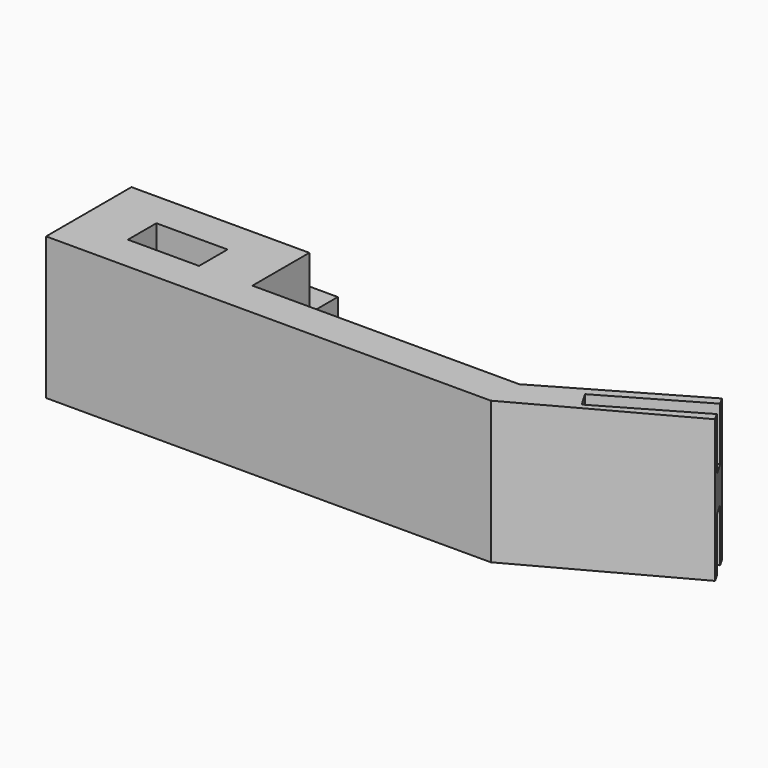
from build123d import *

# Parameters (mm, degrees)
F0_W          = 125
F0_H          = 40
F1_DEPTH      = 10
F3_DEPTH      = 50
F4_W          = 20
F4_H          = 10
F5_DEPTH      = 40
F5_DEPTH_BACK = 25
F7_DEPTH      = 40
F8_W          = 5
F8_H          = 15
F9_DEPTH      = 30


with BuildPart() as f1:
    # F0 (on Front) → F1 (new body)
    with BuildSketch(Plane.XZ):
        Rectangle(F0_W, F0_H)
    extrude(amount=F1_DEPTH)

    # F2 (on face) → F3 (join)
    with BuildSketch(Plane(origin=(-62.5, 0, 0), x_dir=(0, -1, 0), z_dir=(-1, 0, 0))):
        Polygon((-20, -20), (0, -20), (0, 0), (-30, 0), (-30, -5), (-20, -5), align=None)
        Polygon((-30, 0), (0, 0), (0, 20), (-20, 20), (-20, 5), (-30, 5), align=None)
    extrude(amount=-F3_DEPTH)

    # F4 (on face) → F5 (cut, two sides)
    with BuildSketch(Plane.XY.offset(20)) as f5_sk:
        with Locations((-37.5, 5)):
            Rectangle(F4_W, F4_H)
    extrude(amount=-F5_DEPTH, mode=Mode.SUBTRACT)
    extrude(f5_sk.sketch, amount=-F5_DEPTH_BACK, mode=Mode.SUBTRACT)

    # F6 (on face) → F7 (join)
    with BuildSketch(Plane.XY.offset(20)):
        Polygon((101.471143, 22.5), (62.5, 0), (62.5, -10), (106.471143, 13.839746), align=None)
    extrude(amount=-F7_DEPTH)

    # F8 (on face) → F9 (cut)
    with BuildSketch(Plane(origin=(85.846143, 49.563294, 0), x_dir=(-0.5, 0.866025, 0), z_dir=(0.866025, 0.5, 0))):
        with Locations((-36.25, -12.5)):
            Rectangle(F8_W, F8_H)
        with Locations((-36.25, 12.5)):
            Rectangle(F8_W, F8_H)
    extrude(amount=-F9_DEPTH, mode=Mode.SUBTRACT)


solid = f1.part
